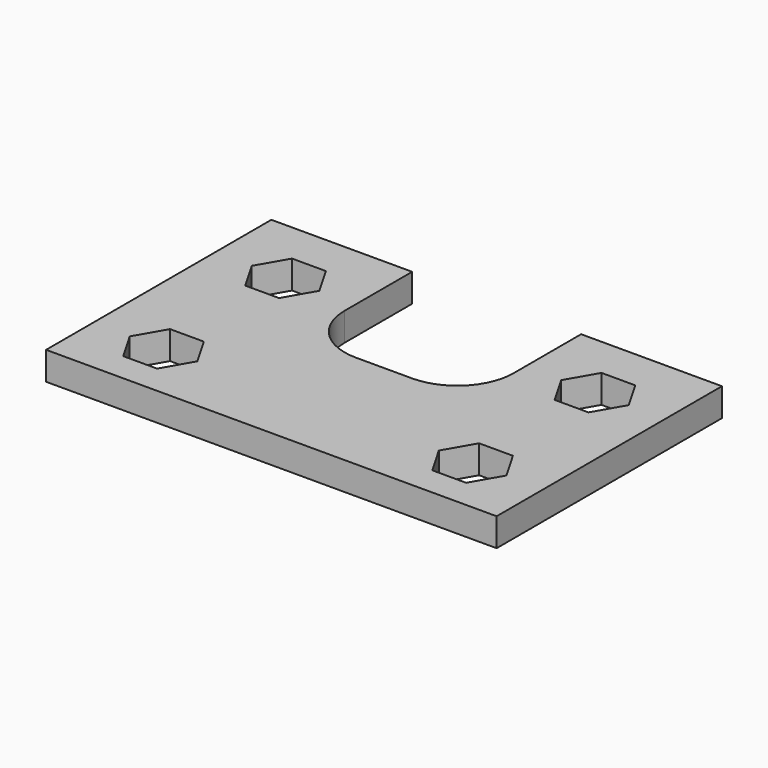
from build123d import *

# Parameters (mm, degrees)
F1_DEPTH = 25.4


with BuildPart() as f1:
    # F0 (on Top) → F1 (new body)
    with BuildSketch(Plane.XY):
        with BuildLine():
            Line((-135.6265469924, 192.971464684), (-135.6265469924, -61.028535316))
            Line((-135.6265469924, -61.028535316), (-71.8986340715, -61.028535316))
            Line((-71.8986340715, -61.028535316), (206.8497932968, -61.028535316))
            Line((206.8497932968, -61.028535316), (270.7734530076, -61.028535316))
            Line((270.7734530076, -61.028535316), (270.7734530076, -8.2356267013))
            Line((270.7734530076, -8.2356267013), (270.7734530076, 129.471464684))
            Line((270.7734530076, 129.471464684), (270.7734530076, 192.971464684))
            Line((270.7734530076, 192.971464684), (143.7734530076, 192.971464684))
            Line((143.7734530076, 192.971464684), (143.7734530076, 116.771464684))
            ThreePointArc((143.7734530076, 116.771464684), (128.8944774919, 80.8504401998), (92.9734530076, 65.971464684))
            Line((92.9734530076, 65.971464684), (42.1734530076, 65.971464684))
            ThreePointArc((42.1734530076, 65.971464684), (6.2524285233, 80.8504401998), (-8.6265469924, 116.771464684))
            Line((-8.6265469924, 116.771464684), (-8.6265469924, 192.971464684))
            Line((-8.6265469924, 192.971464684), (-135.6265469924, 192.971464684))
        make_face()
        Polygon((-41.4738831694, -8.2356267013), (-56.6793630552, -34.620107708), (-87.1593536612, -34.6440380383), (-102.4200732381, -8.2595570316), (-102.4062820949, -8.2356267013), (-87.2008022091, 18.1488543055), (-56.7208116032, 18.1727846358), (-41.4600920262, -8.211696371), align=None, mode=Mode.SUBTRACT)
        Polygon((237.3297932968, -8.2356267013), (222.0897932968, -34.6320810086), (191.6097932968, -34.6320810086), (176.3697932968, -8.2356267013), (191.6097932968, 18.1608276061), (222.0897932968, 18.1608276061), align=None, mode=Mode.SUBTRACT)
        Polygon((-41.568198682, 129.471464684), (-56.808198682, 103.0750103767), (-87.288198682, 103.0750103767), (-102.528198682, 129.471464684), (-87.288198682, 155.8679189914), (-56.808198682, 155.8679189914), align=None, mode=Mode.SUBTRACT)
        Polygon((237.5641679006, 129.471464684), (222.3241679006, 103.0750103767), (191.8441679006, 103.0750103767), (176.6041679006, 129.471464684), (191.8441679006, 155.8679189914), (222.3241679006, 155.8679189914), align=None, mode=Mode.SUBTRACT)
    extrude(amount=F1_DEPTH)


solid = f1.part
